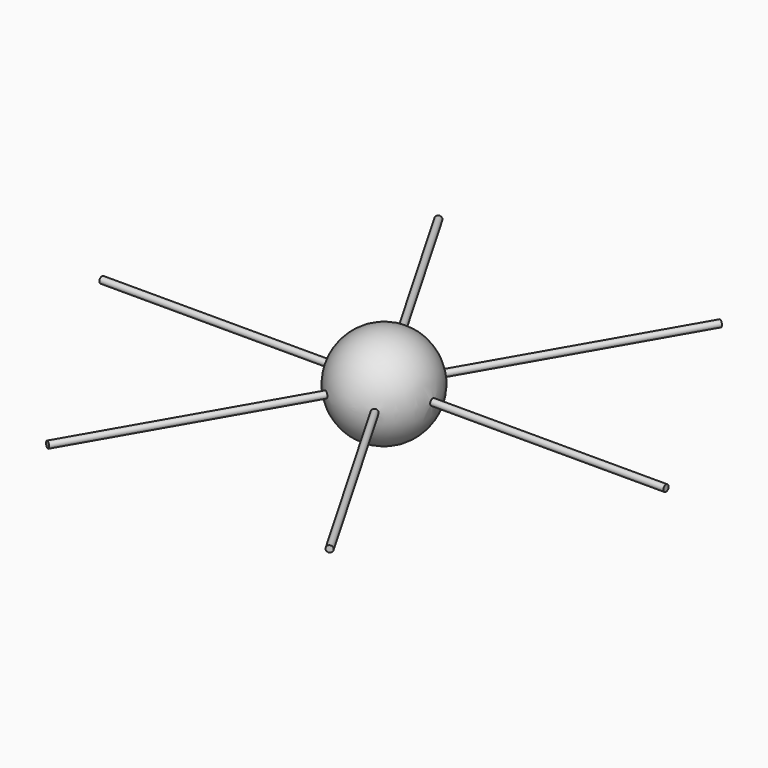
from build123d import *

# Parameters (mm, degrees)
F8_R = 0.1
F7_R = 0.1
F6_R = 0.1


with BuildPart() as f1:
    # F0 (on Top) → F1 (revolve)
    with BuildSketch(Plane.XY):
        with BuildLine():
            Line((0, 1.5), (0, -1.5))
            ThreePointArc((0, -1.5), (1.5, 0), (0, 1.5))
        make_face()
    revolve(axis=Axis((0, 0, 0), (0, -1, 0)))

    # F9: sweep along a path in F2
    with BuildLine(Plane.XY) as f9_path:
        Line((-4.3301270189, 7.5), (0, 0))
        Line((0, 0), (4.3301270189, -7.5))
    # F8 (on line) → F9 (sweep)
    with BuildSketch(Plane(origin=(-4.3301270189, 7.5, 0), x_dir=(-0.8660254038, -0.5, 0), z_dir=(-0.5, 0.8660254038, 0))):
        Circle(F8_R)
    sweep(path=f9_path.line)

    # F10: sweep along a path in F2
    with BuildLine(Plane.XY) as f10_path:
        Line((-8.6602540378, 0), (0, 0))
        Line((0, 0), (8.6602540378, 0))
    # F7 (on line) → F10 (sweep)
    with BuildSketch(Plane(origin=(-8.6602540378, 0, 0), x_dir=(0, -1, 0), z_dir=(-1, 0, 0))):
        Circle(F7_R)
    sweep(path=f10_path.line)

    # F11: sweep along a path in F2
    with BuildLine(Plane.XY) as f11_path:
        Line((-4.3301270189, -7.5), (0, 0))
        Line((0, 0), (4.3301270189, 7.5))
    # F6 (on line) → F11 (sweep)
    with BuildSketch(Plane(origin=(-4.3301270189, -7.5, 0), x_dir=(0.8660254038, -0.5, 0), z_dir=(-0.5, -0.8660254038, 0))):
        Circle(F6_R)
    sweep(path=f11_path.line)


solid = f1.part
